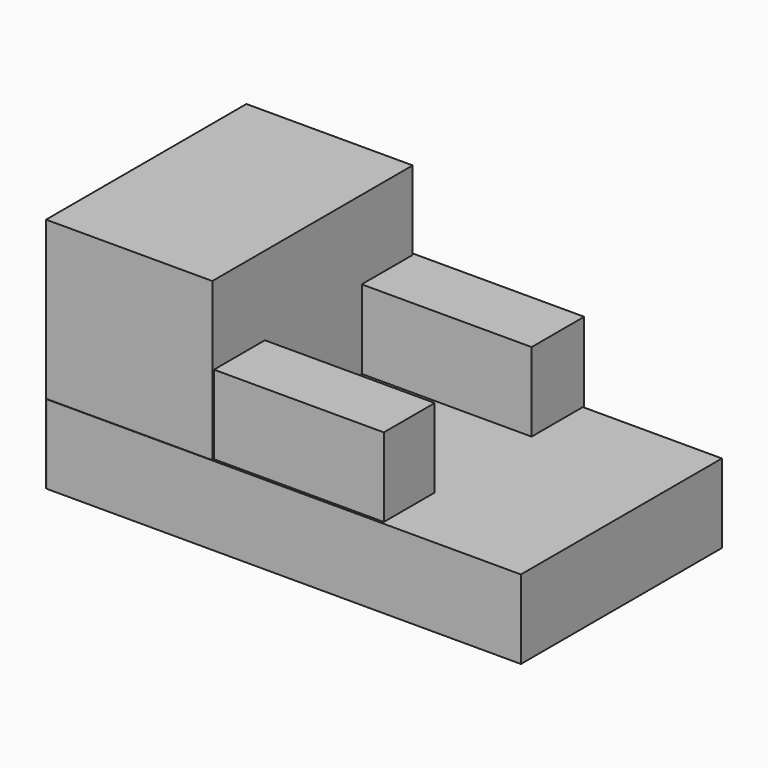
from build123d import *

# Parameters (mm, degrees)
F0_W     = 152.754978
F0_H     = 80.941722
F1_DEPTH = 25.4
F2_W     = 53.560414
F2_H     = 80.67124
F3_DEPTH = 76.2
F4_W     = 54.882895
F4_H     = 20.498429
F4_H_2   = 21.159672
F5_DEPTH = 50.8


with BuildPart() as f1:
    # F0 (on Top) → F1 (new body)
    with BuildSketch(Plane.XY):
        Rectangle(F0_W, F0_H)
    extrude(amount=F1_DEPTH)

    # F2 (on Top) → F3 (join)
    with BuildSketch(Plane.XY):
        with Locations((-49.923595, -2e-06)):
            Rectangle(F2_W, F2_H)
    extrude(amount=F3_DEPTH)

    # F4 (on Top) → F5 (join)
    with BuildSketch(Plane.XY):
        with Locations((4.134902, -29.425164)):
            Rectangle(F4_W, F4_H)
        with Locations((4.134902, 30.417025)):
            Rectangle(F4_W, F4_H_2)
    extrude(amount=F5_DEPTH)


solid = f1.part
